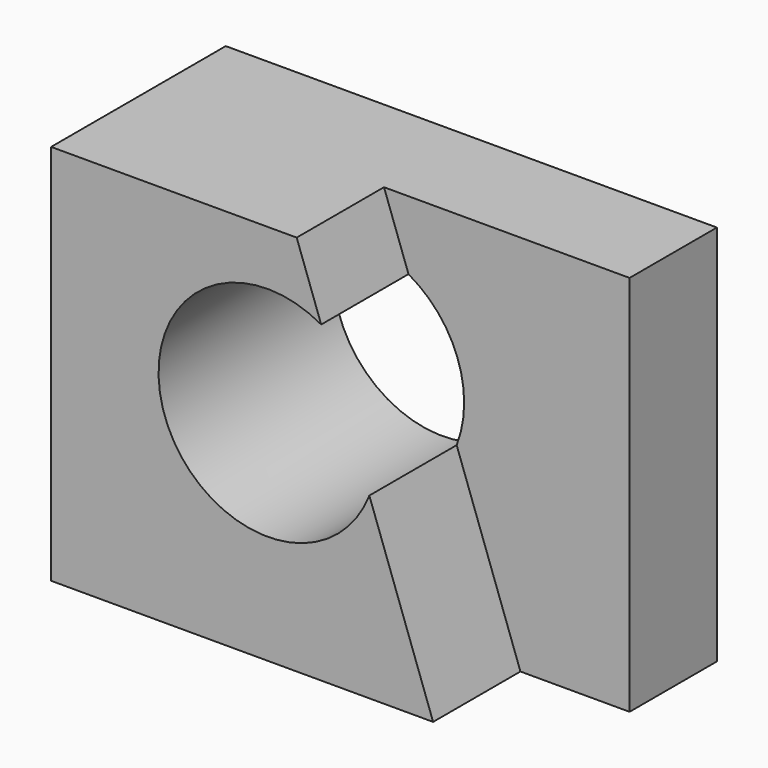
from build123d import *

# Parameters (mm, degrees)
F0_W     = 57.15
F0_H     = 44.45
F1_DEPTH = 25.4
F2_R     = 12.7
F3_DEPTH = 25.401
F5_DEPTH = 12.7


with BuildPart() as f1:
    # F0 (on Front) → F1 (new body)
    with BuildSketch(Plane.XZ):
        with Locations((28.575, 22.225)):
            Rectangle(F0_W, F0_H)
    extrude(amount=F1_DEPTH)

    # F2 (on face) → F3 (cut, through all)
    with BuildSketch(Plane.XZ.offset(25.4)):
        with Locations((25.2007812379, 25.4)):
            Circle(F2_R)
    extrude(amount=-F3_DEPTH, mode=Mode.SUBTRACT)

    # F4 (on face) → F5 (cut)
    with BuildSketch(Plane.XZ.offset(25.4)):
        with BuildLine():
            Line((57.15, 44.45), (28.575, 44.45))
            Line((28.575, 44.45), (31.4249152112, 36.4702374086))
            ThreePointArc((31.4249152112, 36.4702374086), (36.1629092581, 31.8126242108), (37.9007812379, 25.4))
            ThreePointArc((37.9007812379, 25.4), (37.6810755571, 23.0479256591), (37.029560182, 20.7772314905))
            Line((37.029560182, 20.7772314905), (44.45, 0))
            Line((44.45, 0), (57.15, 0))
            Line((57.15, 0), (57.15, 44.45))
        make_face()
    extrude(amount=-F5_DEPTH, mode=Mode.SUBTRACT)


solid = f1.part
